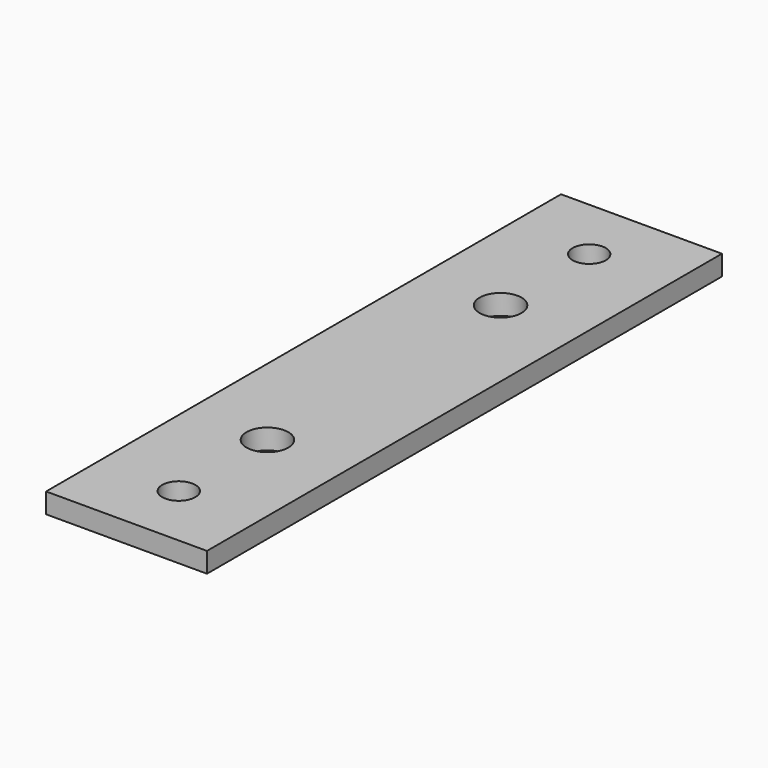
from build123d import *

# Parameters (mm, degrees)
F0_W     = 25.4
F0_H     = 3.175
F1_DEPTH = 101.6
F2_R     = 2.6162
F2_R_2   = 3.302
F3_DEPTH = 3.176


with BuildPart() as f1:
    # F0 (on Front) → F1 (new body)
    with BuildSketch(Plane.XZ):
        Rectangle(F0_W, F0_H)
    extrude(amount=F1_DEPTH)

    # F2 (on face) → F3 (cut, through all)
    with BuildSketch(Plane.XY.offset(1.5875)):
        with Locations((0, -91.2876)):
            Circle(F2_R)
        with Locations((0, -10.3124)):
            Circle(F2_R)
        with Locations((0, -73.7997)):
            Circle(F2_R_2)
        with Locations((0, -27.8003)):
            Circle(F2_R_2)
    extrude(amount=-F3_DEPTH, mode=Mode.SUBTRACT)


solid = f1.part
